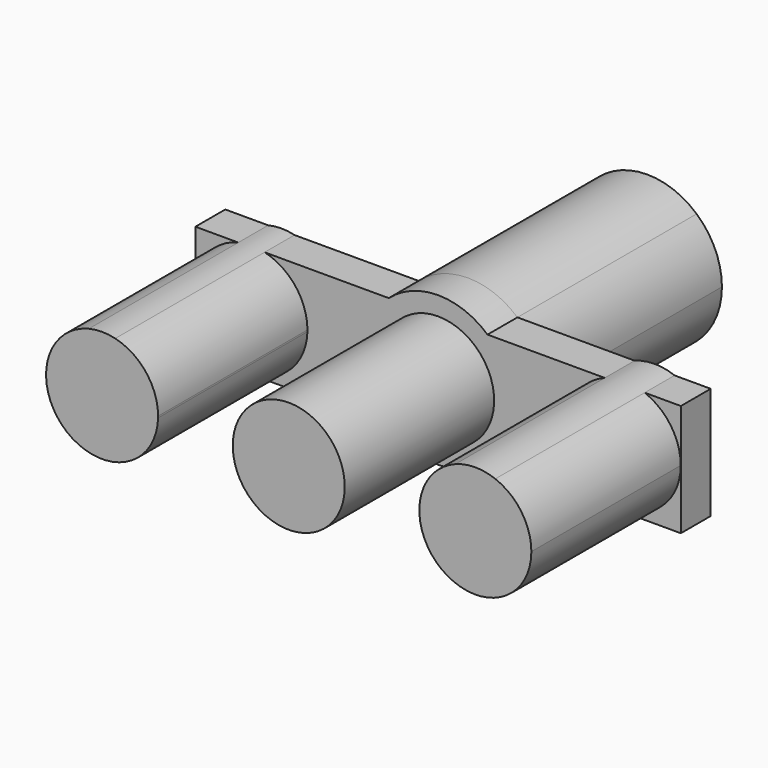
from build123d import *

# Parameters (mm, degrees)
F1_DEPTH = 5
F2_DEPTH = 30
F3_DEPTH = 30


with BuildPart() as f1:
    # F0 (on Front) → F1 (new body)
    with BuildSketch(Plane.XZ):
        with BuildLine():
            Line((-26.7617844339, 7.5), (-32.5, 7.5))
            Line((-32.5, 7.5), (-32.5, -7.5))
            Line((-32.5, -7.5), (-6.6143782777, -7.5))
            ThreePointArc((-6.6143782777, -7.5), (-9.1143782777, -4.1143782777), (-10, 0))
            Line((-10, 0), (-17.5, 0))
            ThreePointArc((-17.5, 0), (-29.7169290115, -5.6180316665), (-26.7617844339, 7.5))
        make_face()
        with BuildLine():
            ThreePointArc((-23.2323020473, 7.5), (-24.9970432406, 7.7105769419), (-26.7617844339, 7.5))
            Line((-26.7617844339, 7.5), (-23.2323020473, 7.5))
        make_face()
        with BuildLine():
            Line((-23.2323020473, 7.5), (-26.7617844339, 7.5))
            ThreePointArc((-26.7617844339, 7.5), (-29.7169290115, -5.6180316665), (-17.5, 0))
            ThreePointArc((-17.5, 0), (-17.4977824669, 0.1052780923), (-17.4970432406, 0.2105769419))
            ThreePointArc((-17.4970432406, 0.2105769419), (-19.1027426481, 4.8481647335), (-23.2323020473, 7.5))
        make_face()
        with BuildLine():
            Line((-6.6143782777, 7.5), (-23.2323020473, 7.5))
            ThreePointArc((-23.2323020473, 7.5), (-19.1027426481, 4.8481647335), (-17.4970432406, 0.2105769419))
            ThreePointArc((-17.4970432406, 0.2105769419), (-17.4977824669, 0.1052780923), (-17.5, 0))
            Line((-17.5, 0), (-10, 0))
            ThreePointArc((-10, 0), (-9.1143782777, 4.1143782777), (-6.6143782777, 7.5))
        make_face()
        with BuildLine():
            ThreePointArc((-10, 0), (-9.1143782777, -4.1143782777), (-6.6143782777, -7.5))
            Line((-6.6143782777, -7.5), (2.3e-08, -7.5))
            ThreePointArc((2.3e-08, -7.5), (-5.3033008508, -5.303300867), (-7.5, 0))
            Line((-7.5, 0), (-10, 0))
        make_face()
        with BuildLine():
            Line((2.3e-08, -7.5), (-6.6143782777, -7.5))
            ThreePointArc((-6.6143782777, -7.5), (0, -10), (6.6143782777, -7.5))
            Line((6.6143782777, -7.5), (2.3e-08, -7.5))
        make_face()
        with BuildLine():
            ThreePointArc((6.6143782777, 7.5), (0, 10), (-6.6143782777, 7.5))
            Line((-6.6143782777, 7.5), (2.31e-08, 7.5))
            Line((2.31e-08, 7.5), (6.6143782777, 7.5))
        make_face()
        with BuildLine():
            Line((2.31e-08, 7.5), (-6.6143782777, 7.5))
            ThreePointArc((-6.6143782777, 7.5), (-9.1143782777, 4.1143782777), (-10, 0))
            Line((-10, 0), (-7.5, 0))
            ThreePointArc((-7.5, 0), (-5.3033008507, 5.3033008671), (2.31e-08, 7.5))
        make_face()
        with BuildLine():
            ThreePointArc((7.5, 0), (5.303300867, -5.3033008508), (2.3e-08, -7.5))
            Line((2.3e-08, -7.5), (6.6143782777, -7.5))
            ThreePointArc((6.6143782777, -7.5), (9.1143782777, -4.1143782777), (10, 0))
            Line((10, 0), (7.5, 0))
        make_face()
        with BuildLine():
            ThreePointArc((10, 0), (9.1143782777, -4.1143782777), (6.6143782777, -7.5))
            Line((6.6143782777, -7.5), (32.5, -7.5))
            Line((32.5, -7.5), (32.5, 7.5))
            Line((32.5, 7.5), (27.6573566535, 7.5))
            ThreePointArc((27.6573566535, 7.5), (31.1604351362, 4.7470222531), (32.4837981584, 0.4927120101))
            ThreePointArc((32.4837981584, 0.4927120101), (25.2302873187, -7.0032364351), (17.5, 0))
            Line((17.5, 0), (10, 0))
        make_face()
        with BuildLine():
            Line((6.6143782777, 7.5), (2.31e-08, 7.5))
            ThreePointArc((2.31e-08, 7.5), (5.3033008671, 5.3033008507), (7.5, 0))
            Line((7.5, 0), (10, 0))
            ThreePointArc((10, 0), (9.1143782777, 4.1143782777), (6.6143782777, 7.5))
        make_face()
        with BuildLine():
            Line((22.3102396633, 7.5), (6.6143782777, 7.5))
            ThreePointArc((6.6143782777, 7.5), (9.1143782777, 4.1143782777), (10, 0))
            Line((10, 0), (17.5, 0))
            ThreePointArc((17.5, 0), (18.6706789969, 4.541727502), (22.3102396633, 7.5))
        make_face()
        with BuildLine():
            ThreePointArc((27.6573566535, 7.5), (24.9837981584, 7.9927120101), (22.3102396633, 7.5))
            Line((22.3102396633, 7.5), (27.6573566535, 7.5))
        make_face()
        with BuildLine():
            Line((27.6573566535, 7.5), (22.3102396633, 7.5))
            ThreePointArc((22.3102396633, 7.5), (18.6706789969, 4.541727502), (17.5, 0))
            ThreePointArc((17.5, 0), (25.2302873187, -7.0032364351), (32.4837981584, 0.4927120101))
            ThreePointArc((32.4837981584, 0.4927120101), (31.1604351362, 4.7470222531), (27.6573566535, 7.5))
        make_face()
    extrude(amount=F1_DEPTH)


with BuildPart() as f2:
    # F0 (on Front) → F2 (new body)
    with BuildSketch(Plane.XZ):
        with BuildLine():
            ThreePointArc((-23.2323020473, 7.5), (-24.9970432406, 7.7105769419), (-26.7617844339, 7.5))
            Line((-26.7617844339, 7.5), (-23.2323020473, 7.5))
        make_face()
        with BuildLine():
            Line((-23.2323020473, 7.5), (-26.7617844339, 7.5))
            ThreePointArc((-26.7617844339, 7.5), (-29.7169290115, -5.6180316665), (-17.5, 0))
            ThreePointArc((-17.5, 0), (-17.4977824669, 0.1052780923), (-17.4970432406, 0.2105769419))
            ThreePointArc((-17.4970432406, 0.2105769419), (-19.1027426481, 4.8481647335), (-23.2323020473, 7.5))
        make_face()
    extrude(amount=F2_DEPTH)


with BuildPart() as f2b:
    # F0 (on Front) → F2, piece 2 (new body)
    with BuildSketch(Plane.XZ):
        with BuildLine():
            ThreePointArc((27.6573566535, 7.5), (24.9837981584, 7.9927120101), (22.3102396633, 7.5))
            Line((22.3102396633, 7.5), (27.6573566535, 7.5))
        make_face()
        with BuildLine():
            Line((27.6573566535, 7.5), (22.3102396633, 7.5))
            ThreePointArc((22.3102396633, 7.5), (18.6706789969, 4.541727502), (17.5, 0))
            ThreePointArc((17.5, 0), (25.2302873187, -7.0032364351), (32.4837981584, 0.4927120101))
            ThreePointArc((32.4837981584, 0.4927120101), (31.1604351362, 4.7470222531), (27.6573566535, 7.5))
        make_face()
    extrude(amount=F2_DEPTH)


with BuildPart() as f2c:
    # F0 (on Front) → F2, piece 3 (new body)
    with BuildSketch(Plane.XZ):
        with BuildLine():
            ThreePointArc((-7.5, 0), (-5.3033008508, -5.303300867), (2.3e-08, -7.5))
            ThreePointArc((2.3e-08, -7.5), (5.303300867, -5.3033008508), (7.5, 0))
            ThreePointArc((7.5, 0), (5.3033008671, 5.3033008507), (2.31e-08, 7.5))
            ThreePointArc((2.31e-08, 7.5), (-5.3033008507, 5.3033008671), (-7.5, 0))
        make_face()
    extrude(amount=F2_DEPTH)


with BuildPart() as f3:
    # F0 (on Front) → F3 (new body)
    with BuildSketch(Plane.XZ):
        with BuildLine():
            Line((6.6143782777, 7.5), (2.31e-08, 7.5))
            ThreePointArc((2.31e-08, 7.5), (5.3033008671, 5.3033008507), (7.5, 0))
            Line((7.5, 0), (10, 0))
            ThreePointArc((10, 0), (9.1143782777, 4.1143782777), (6.6143782777, 7.5))
        make_face()
        with BuildLine():
            ThreePointArc((-7.5, 0), (-5.3033008508, -5.303300867), (2.3e-08, -7.5))
            ThreePointArc((2.3e-08, -7.5), (5.303300867, -5.3033008508), (7.5, 0))
            ThreePointArc((7.5, 0), (5.3033008671, 5.3033008507), (2.31e-08, 7.5))
            ThreePointArc((2.31e-08, 7.5), (-5.3033008507, 5.3033008671), (-7.5, 0))
        make_face()
        with BuildLine():
            ThreePointArc((6.6143782777, 7.5), (0, 10), (-6.6143782777, 7.5))
            Line((-6.6143782777, 7.5), (2.31e-08, 7.5))
            Line((2.31e-08, 7.5), (6.6143782777, 7.5))
        make_face()
        with BuildLine():
            Line((2.31e-08, 7.5), (-6.6143782777, 7.5))
            ThreePointArc((-6.6143782777, 7.5), (-9.1143782777, 4.1143782777), (-10, 0))
            Line((-10, 0), (-7.5, 0))
            ThreePointArc((-7.5, 0), (-5.3033008507, 5.3033008671), (2.31e-08, 7.5))
        make_face()
        with BuildLine():
            ThreePointArc((-10, 0), (-9.1143782777, -4.1143782777), (-6.6143782777, -7.5))
            Line((-6.6143782777, -7.5), (2.3e-08, -7.5))
            ThreePointArc((2.3e-08, -7.5), (-5.3033008508, -5.303300867), (-7.5, 0))
            Line((-7.5, 0), (-10, 0))
        make_face()
        with BuildLine():
            Line((2.3e-08, -7.5), (-6.6143782777, -7.5))
            ThreePointArc((-6.6143782777, -7.5), (0, -10), (6.6143782777, -7.5))
            Line((6.6143782777, -7.5), (2.3e-08, -7.5))
        make_face()
        with BuildLine():
            ThreePointArc((7.5, 0), (5.303300867, -5.3033008508), (2.3e-08, -7.5))
            Line((2.3e-08, -7.5), (6.6143782777, -7.5))
            ThreePointArc((6.6143782777, -7.5), (9.1143782777, -4.1143782777), (10, 0))
            Line((10, 0), (7.5, 0))
        make_face()
    extrude(amount=-F3_DEPTH)


solid = Compound([f1.part, f2.part, f2b.part, f2c.part, f3.part])
